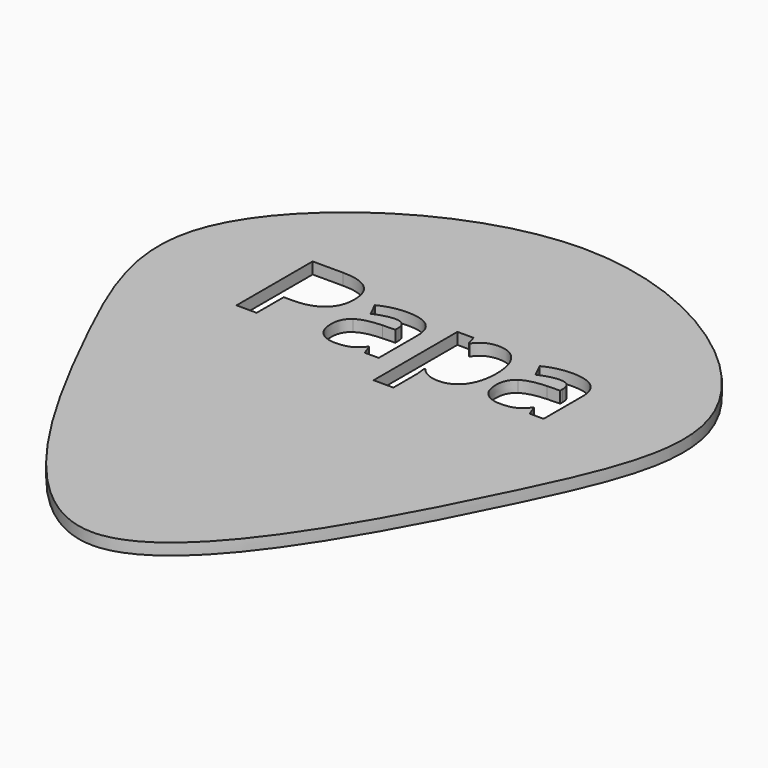
from build123d import *

# Parameters (mm, degrees)
F1_DEPTH = 0.6


with BuildPart() as f1:
    # F0 (on Top) → F1 (new body)
    with BuildSketch(Plane.XY):
        with BuildLine():
            add(Edge.make_bspline(
                [(0, -13.3484860004), (-4.1261352973, -13.3484860004), (-11.5695883563, 0.5525926673), (-16.058339722, 11.46014805), (0, 22.5159383761), (16.058339722, 11.46014805), (11.5695883563, 0.5525926673), (4.1261352973, -13.3484860004), (0, -13.3484860004)],
                knots=[0, 0, 0, 0, 0.18262571, 0.3294525753, 0.5, 0.6705474247, 0.81737429, 1, 1, 1, 1], degree=3))
        make_face()
        with BuildLine():
            add(Edge.make_bspline(
                [(-4.9571397569, 10.4911963321), (-4.4878472222, 10.102741471), (-4.4878472222, 9.3334272349)],
                knots=[0, 0, 0, 1, 1, 1], degree=2))
            add(Edge.make_bspline(
                [(-4.4878472222, 9.3334272349), (-4.4878472222, 8.5326459849), (-4.9880642361, 8.1089263668)],
                knots=[0, 0, 0, 1, 1, 1], degree=2))
            add(Edge.make_bspline(
                [(-4.9880642361, 8.1089263668), (-5.48828125, 7.6852067488), (-6.4105902778, 7.6852067488)],
                knots=[0, 0, 0, 1, 1, 1], degree=2))
            Line((-6.4105902778, 7.6852067488), (-6.8608940972, 7.6852067488))
            Line((-6.8608940972, 7.6852067488), (-6.8608940972, 5.9219689015))
            Line((-6.8608940972, 5.9219689015), (-7.9123263889, 5.9219689015))
            Line((-7.9123263889, 5.9219689015), (-7.9123263889, 10.8796511932))
            Line((-7.9123263889, 10.8796511932), (-6.3292100694, 10.8796511932))
            add(Edge.make_bspline(
                [(-6.3292100694, 10.8796511932), (-5.4264322917, 10.8796511932), (-4.9571397569, 10.4911963321)],
                knots=[0, 0, 0, 1, 1, 1], degree=2))
        make_face(mode=Mode.SUBTRACT)
        with BuildLine():
            Line((-0.5034722222, 5.9219689015), (-1.2250434028, 5.9219689015))
            Line((-1.2250434028, 5.9219689015), (-1.42578125, 6.4373768876))
            Line((-1.42578125, 6.4373768876), (-1.4529079861, 6.4373768876))
            add(Edge.make_bspline(
                [(-1.4529079861, 6.4373768876), (-1.7133246528, 6.108600846), (-1.9900173611, 5.9811051863)],
                knots=[0, 0, 0, 1, 1, 1], degree=2))
            add(Edge.make_bspline(
                [(-1.9900173611, 5.9811051863), (-2.2667100694, 5.8536095265), (-2.7105034722, 5.8536095265)],
                knots=[0, 0, 0, 1, 1, 1], degree=2))
            add(Edge.make_bspline(
                [(-2.7105034722, 5.8536095265), (-3.2562934028, 5.8536095265), (-3.5698784722, 6.1661095265)],
                knots=[0, 0, 0, 1, 1, 1], degree=2))
            add(Edge.make_bspline(
                [(-3.5698784722, 6.1661095265), (-3.8834635417, 6.4786095265), (-3.8834635417, 7.0547814015)],
                knots=[0, 0, 0, 1, 1, 1], degree=2))
            add(Edge.make_bspline(
                [(-3.8834635417, 7.0547814015), (-3.8834635417, 7.6580800126), (-3.4613715278, 7.944538346)],
                knots=[0, 0, 0, 1, 1, 1], degree=2))
            add(Edge.make_bspline(
                [(-3.4613715278, 7.944538346), (-3.0392795139, 8.2309966793), (-2.1885850694, 8.2613786238)],
                knots=[0, 0, 0, 1, 1, 1], degree=2))
            Line((-2.1885850694, 8.2613786238), (-1.5299479167, 8.2819949432))
            Line((-1.5299479167, 8.2819949432), (-1.5299479167, 8.4480105682))
            add(Edge.make_bspline(
                [(-1.5299479167, 8.4480105682), (-1.5299479167, 9.0241824432), (-2.1202256944, 9.0241824432)],
                knots=[0, 0, 0, 1, 1, 1], degree=2))
            add(Edge.make_bspline(
                [(-2.1202256944, 9.0241824432), (-2.5748697917, 9.0241824432), (-3.1890190972, 8.7496598738)],
                knots=[0, 0, 0, 1, 1, 1], degree=2))
            Line((-3.1890190972, 8.7496598738), (-3.5308159722, 9.448444596))
            add(Edge.make_bspline(
                [(-3.5308159722, 9.448444596), (-2.8765190972, 9.7913265404), (-2.080078125, 9.7913265404)],
                knots=[0, 0, 0, 1, 1, 1], degree=2))
            add(Edge.make_bspline(
                [(-2.080078125, 9.7913265404), (-1.3172743056, 9.7913265404), (-0.9103732639, 9.4587527557)],
                knots=[0, 0, 0, 1, 1, 1], degree=2))
            add(Edge.make_bspline(
                [(-0.9103732639, 9.4587527557), (-0.5034722222, 9.126178971), (-0.5034722222, 8.4480105682)],
                knots=[0, 0, 0, 1, 1, 1], degree=2))
            Line((-0.5034722222, 8.4480105682), (-0.5034722222, 5.9219689015))
        make_face(mode=Mode.SUBTRACT)
        with BuildLine():
            add(Edge.make_bspline(
                [(3.4168836806, 6.0879845265), (3.0881076389, 5.8536095265), (2.6443142361, 5.8536095265)],
                knots=[0, 0, 0, 1, 1, 1], degree=2))
            add(Edge.make_bspline(
                [(2.6443142361, 5.8536095265), (1.9759114583, 5.8536095265), (1.5961371528, 6.3386355682)],
                knots=[0, 0, 0, 1, 1, 1], degree=2))
            Line((1.5961371528, 6.3386355682), (1.5418836806, 6.3386355682))
            add(Edge.make_bspline(
                [(1.5418836806, 6.3386355682), (1.5961371528, 5.864460221), (1.5961371528, 5.7895904293)],
                knots=[0, 0, 0, 1, 1, 1], degree=2))
            Line((1.5961371528, 5.7895904293), (1.5961371528, 4.253132096))
            Line((1.5961371528, 4.253132096), (0.5620659722, 4.253132096))
            Line((0.5620659722, 4.253132096), (0.5620659722, 9.7132015404))
            Line((0.5620659722, 9.7132015404), (1.4029947917, 9.7132015404))
            Line((1.4029947917, 9.7132015404), (1.5483940972, 9.2216650821))
            Line((1.5483940972, 9.2216650821), (1.5961371528, 9.2216650821))
            add(Edge.make_bspline(
                [(1.5961371528, 9.2216650821), (1.9596354167, 9.7837310543), (2.6714409722, 9.7837310543)],
                knots=[0, 0, 0, 1, 1, 1], degree=2))
            add(Edge.make_bspline(
                [(2.6714409722, 9.7837310543), (3.3430989583, 9.7837310543), (3.7228732639, 9.2650678599)],
                knots=[0, 0, 0, 1, 1, 1], degree=2))
            add(Edge.make_bspline(
                [(3.7228732639, 9.2650678599), (4.1026475694, 8.7464046654), (4.1026475694, 7.8240956376)],
                knots=[0, 0, 0, 1, 1, 1], degree=2))
            add(Edge.make_bspline(
                [(4.1026475694, 7.8240956376), (4.1026475694, 7.2175418182), (3.9241536458, 6.7699506724)],
                knots=[0, 0, 0, 1, 1, 1], degree=2))
            add(Edge.make_bspline(
                [(3.9241536458, 6.7699506724), (3.7456597222, 6.3223595265), (3.4168836806, 6.0879845265)],
                knots=[0, 0, 0, 1, 1, 1], degree=2))
        make_face(mode=Mode.SUBTRACT)
        with BuildLine():
            Line((8.0859375, 5.9219689015), (7.3643663194, 5.9219689015))
            Line((7.3643663194, 5.9219689015), (7.1636284722, 6.4373768876))
            Line((7.1636284722, 6.4373768876), (7.1365017361, 6.4373768876))
            add(Edge.make_bspline(
                [(7.1365017361, 6.4373768876), (6.8760850694, 6.108600846), (6.5993923611, 5.9811051863)],
                knots=[0, 0, 0, 1, 1, 1], degree=2))
            add(Edge.make_bspline(
                [(6.5993923611, 5.9811051863), (6.3226996528, 5.8536095265), (5.87890625, 5.8536095265)],
                knots=[0, 0, 0, 1, 1, 1], degree=2))
            add(Edge.make_bspline(
                [(5.87890625, 5.8536095265), (5.3331163194, 5.8536095265), (5.01953125, 6.1661095265)],
                knots=[0, 0, 0, 1, 1, 1], degree=2))
            add(Edge.make_bspline(
                [(5.01953125, 6.1661095265), (4.7059461806, 6.4786095265), (4.7059461806, 7.0547814015)],
                knots=[0, 0, 0, 1, 1, 1], degree=2))
            add(Edge.make_bspline(
                [(4.7059461806, 7.0547814015), (4.7059461806, 7.6580800126), (5.1280381944, 7.944538346)],
                knots=[0, 0, 0, 1, 1, 1], degree=2))
            add(Edge.make_bspline(
                [(5.1280381944, 7.944538346), (5.5501302083, 8.2309966793), (6.4008246528, 8.2613786238)],
                knots=[0, 0, 0, 1, 1, 1], degree=2))
            Line((6.4008246528, 8.2613786238), (7.0594618056, 8.2819949432))
            Line((7.0594618056, 8.2819949432), (7.0594618056, 8.4480105682))
            add(Edge.make_bspline(
                [(7.0594618056, 8.4480105682), (7.0594618056, 9.0241824432), (6.4691840278, 9.0241824432)],
                knots=[0, 0, 0, 1, 1, 1], degree=2))
            add(Edge.make_bspline(
                [(6.4691840278, 9.0241824432), (6.0145399306, 9.0241824432), (5.400390625, 8.7496598738)],
                knots=[0, 0, 0, 1, 1, 1], degree=2))
            Line((5.400390625, 8.7496598738), (5.05859375, 9.448444596))
            add(Edge.make_bspline(
                [(5.05859375, 9.448444596), (5.712890625, 9.7913265404), (6.5093315972, 9.7913265404)],
                knots=[0, 0, 0, 1, 1, 1], degree=2))
            add(Edge.make_bspline(
                [(6.5093315972, 9.7913265404), (7.2721354167, 9.7913265404), (7.6790364583, 9.4587527557)],
                knots=[0, 0, 0, 1, 1, 1], degree=2))
            add(Edge.make_bspline(
                [(7.6790364583, 9.4587527557), (8.0859375, 9.126178971), (8.0859375, 8.4480105682)],
                knots=[0, 0, 0, 1, 1, 1], degree=2))
            Line((8.0859375, 8.4480105682), (8.0859375, 5.9219689015))
        make_face(mode=Mode.SUBTRACT)
    extrude(amount=F1_DEPTH)


solid = f1.part
